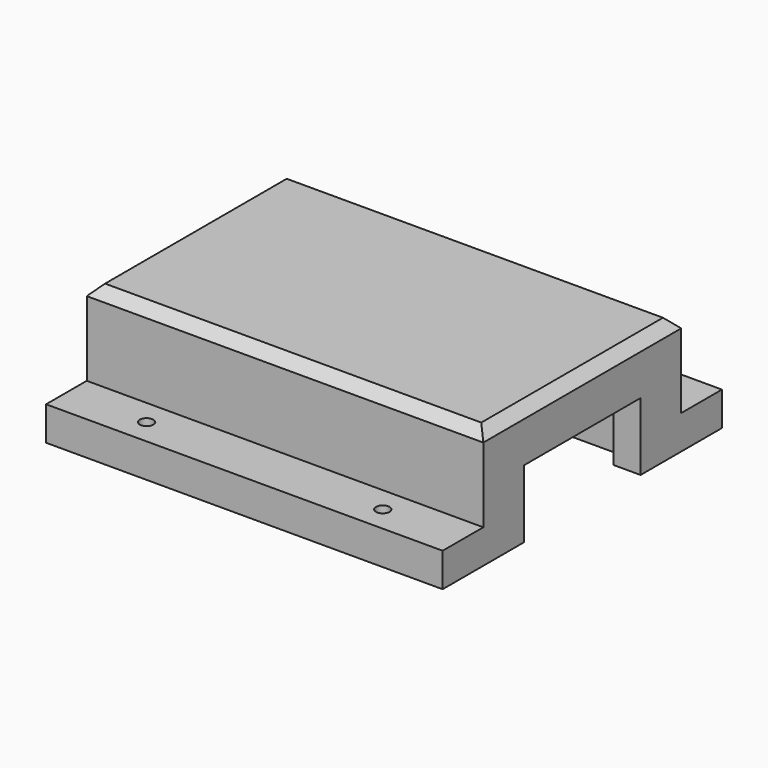
from build123d import *

# Parameters (mm, degrees)
F1_DEPTH = 58.5
F3_DEPTH = 148.4
F4_R     = 2
F5_DEPTH = 25
F6_W     = 5
F6_H     = 20
F7_DEPTH = 50.5
F8_SIZE  = 3


with BuildPart() as f1:
    # F0 (on Right) → F1 (new body, symmetric)
    with BuildSketch(Plane.YZ):
        Polygon((36.5, -7.5), (36.5, 17.5), (-36.5, 17.5), (-36.5, -7.5), (-51.5, -7.5), (-51.5, -17.5), (-36.5, -17.5), (-21.5, -17.5), (-21.5, 2.5), (21.5, 2.5), (21.5, -17.5), (36.5, -17.5), (51.5, -17.5), (51.5, -7.5), align=None)
    extrude(amount=F1_DEPTH, both=True)

    # F2 (on Front) → F3 (cut)
    with BuildSketch(Plane.XZ):
        with BuildLine():
            Line((-15, -17.5), (15, -17.5))
            ThreePointArc((15, -17.5), (0, -2.5), (-15, -17.5))
        make_face()
    extrude(amount=-F3_DEPTH, mode=Mode.SUBTRACT)

    # F4 (on Top) → F5 (cut)
    with BuildSketch(Plane.XY):
        with Locations((-34.84017, -44)):
            Circle(F4_R)
        with Locations((34.84017, -44)):
            Circle(F4_R)
        with Locations((-34.84017, 44)):
            Circle(F4_R)
        with Locations((34.84017, 44)):
            Circle(F4_R)
    extrude(amount=-F5_DEPTH, mode=Mode.SUBTRACT)

    # F6 (on Right) → F7 (cut, symmetric)
    with BuildSketch(Plane.YZ):
        with Locations((24, -7.5)):
            Rectangle(F6_W, F6_H)
        with Locations((-24, -7.5)):
            Rectangle(F6_W, F6_H)
    extrude(amount=F7_DEPTH, both=True, mode=Mode.SUBTRACT)

    # F8
    f8_edges = [f1.edges().sort_by_distance(p)[0] for p in [
        (0, 36.5, 17.5),
        (-58.5, 0, 17.5),
        (58.5, 0, 17.5),
        (0, -36.5, 17.5),
    ]]
    chamfer(f8_edges, length=F8_SIZE)


solid = f1.part
